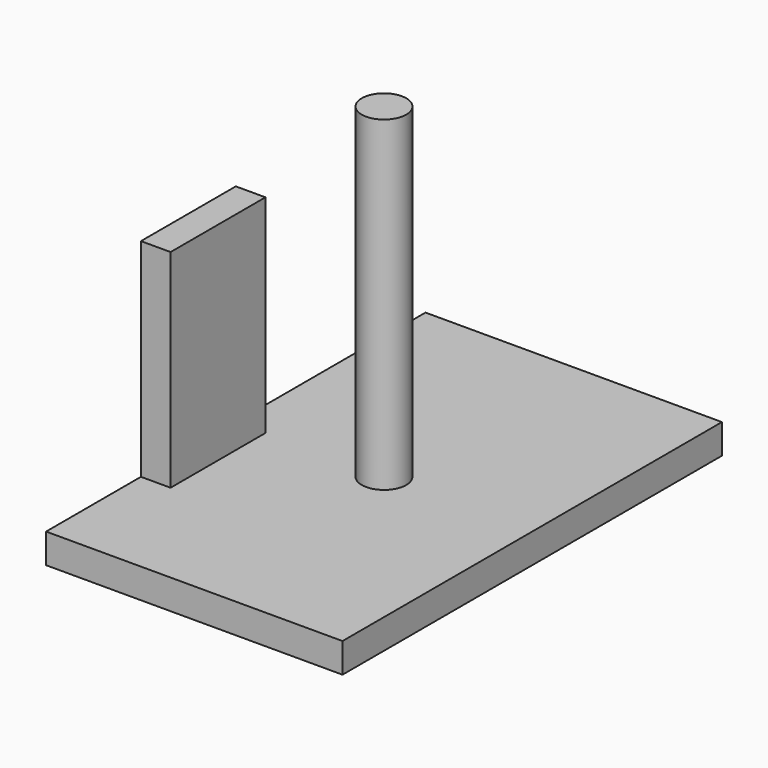
from build123d import *

# Parameters (mm, degrees)
F0_W     = 63.5
F0_H     = 101.6
F1_DEPTH = 6.35
F2_R     = 4.7625
F3_DEPTH = 69.85
F4_W     = 6.35
F4_H     = 25.4
F5_DEPTH = 44.45


with BuildPart() as f1:
    # F0 (on Top) → F1 (new body)
    with BuildSketch(Plane.XY):
        Rectangle(F0_W, F0_H)
    extrude(amount=F1_DEPTH)

    # F2 (on face) → F3 (join)
    with BuildSketch(Plane.XY.offset(6.35)):
        Circle(F2_R)
    extrude(amount=F3_DEPTH)

    # F4 (on face) → F5 (join)
    with BuildSketch(Plane.XY.offset(6.35)):
        with Locations((-28.575, -12.7)):
            Rectangle(F4_W, F4_H)
    extrude(amount=F5_DEPTH)


solid = f1.part
